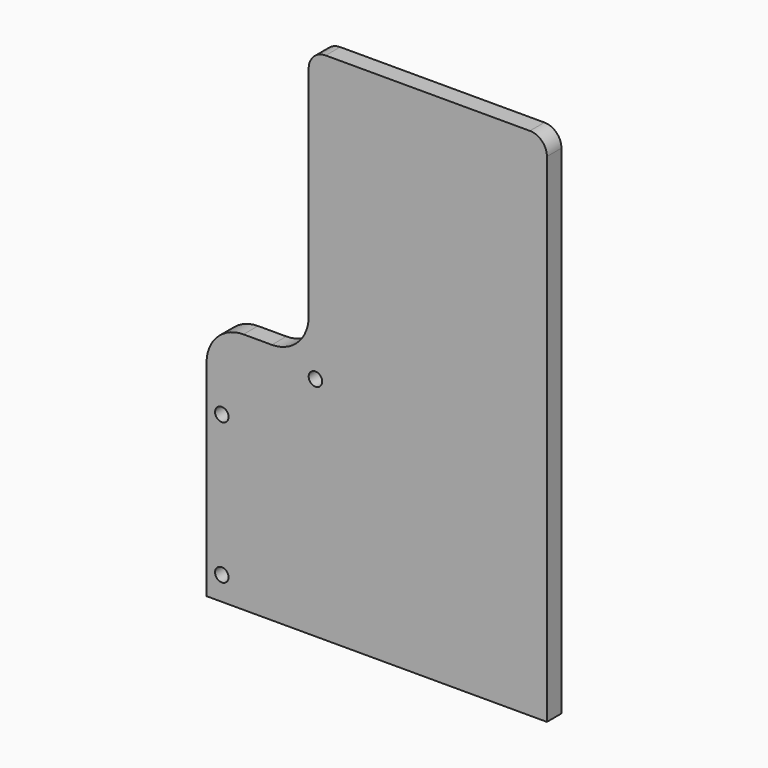
from build123d import *

# Parameters (mm, degrees)
PAD_DEPTH    = 3.2
SKETCH001_R  = 1.19
POCKET_DEPTH = 3.201


with BuildPart() as part:
    # Sketch → Pad (new body)
    with BuildSketch(Plane.XZ):
        with BuildLine():
            Line((60, 0), (0, 0))
            Line((0, 0), (0, 36.25))
            ThreePointArc((6.5, 42.75), (1.903806, 40.846194), (0, 36.25))
            Line((6.5, 42.75), (11.5, 42.75))
            ThreePointArc((11.5, 42.75), (16.096194, 44.653806), (18, 49.25))
            Line((18, 49.25), (18, 87.75))
            ThreePointArc((21, 90.75), (18.87868, 89.87132), (18, 87.75))
            Line((21, 90.75), (57, 90.75))
            ThreePointArc((60, 87.75), (59.12132, 89.87132), (57, 90.75))
            Line((60, 87.75), (60, 0))
        make_face()
    extrude(amount=PAD_DEPTH)

    # Sketch001 (on Face12 of Pad) → Pocket (cut, through all)
    with BuildSketch(Plane.XZ.offset(3.2)):
        with Locations((19.19, 39.94)):
            Circle(SKETCH001_R)
        with Locations((2.69, 29.07)):
            Circle(SKETCH001_R)
        with Locations((2.69, 4.19)):
            Circle(SKETCH001_R)
    extrude(amount=-POCKET_DEPTH, mode=Mode.SUBTRACT)


solid = part.part
